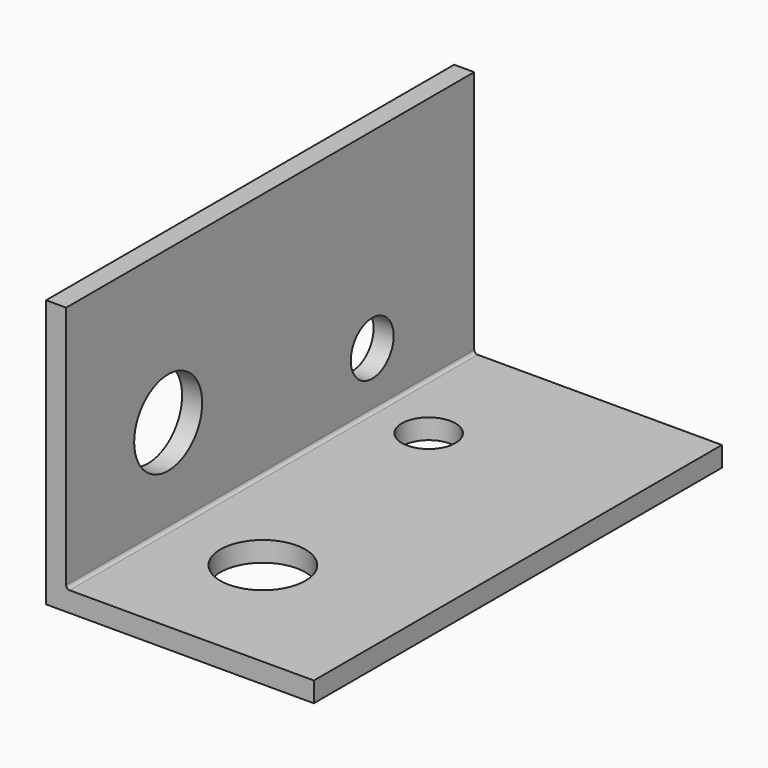
from build123d import *

# Parameters (mm, degrees)
F1_DEPTH = 19.05
F2_R     = 3.175
F2_R_2   = 2
F3_DEPTH = 1.5
F4_R     = 3.175
F4_R_2   = 2
F5_DEPTH = 1.5


with BuildPart() as f1:
    # F0 (on Front) → F1 (new body, symmetric)
    with BuildSketch(Plane.XZ):
        with BuildLine():
            Line((1.5, 20), (0, 20))
            Line((0, 20), (0, 0))
            Line((0, 0), (20, 0))
            Line((20, 0), (20, 1.5))
            Line((20, 1.5), (1.754, 1.5))
            ThreePointArc((1.754, 1.5), (1.574395, 1.574395), (1.5, 1.754))
            Line((1.5, 1.754), (1.5, 20))
        make_face()
    extrude(amount=F1_DEPTH, both=True)

    # F2 (on face) → F3 (cut, through all)
    with BuildSketch(Plane(origin=(0, 0, 0), x_dir=(0, -1, 0), z_dir=(-1, 0, 0))):
        with Locations((9.525, 8.5725)):
            Circle(F2_R)
        with Locations((-9.525, 5.715)):
            Circle(F2_R_2)
    extrude(amount=-F3_DEPTH, mode=Mode.SUBTRACT)

    # F4 (on face) → F5 (cut, through all)
    with BuildSketch(Plane(origin=(0, 0, 0), x_dir=(1, 0, 0), z_dir=(0, 0, -1))):
        with Locations((8.5725, 9.525)):
            Circle(F4_R)
        with Locations((5.715, -9.525)):
            Circle(F4_R_2)
    extrude(amount=-F5_DEPTH, mode=Mode.SUBTRACT)


solid = f1.part
